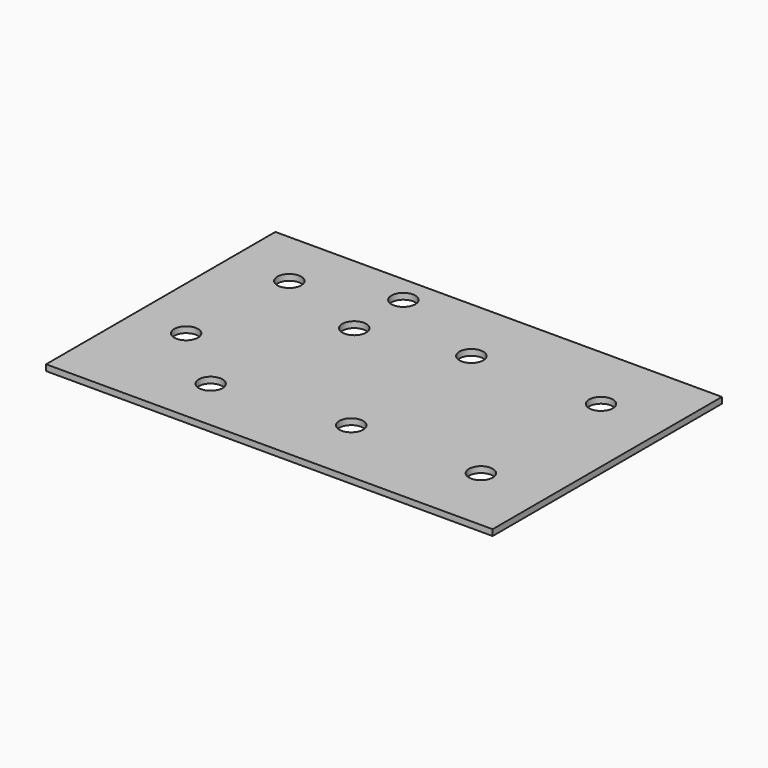
from build123d import *

# Parameters (mm, degrees)
F0_W     = 207.772
F0_H     = 133.35
F1_DEPTH = 2.8194
F2_R     = 5.5372
F3_DEPTH = 2.8204


with BuildPart() as f1:
    # F0 (on Top) → F1 (new body)
    with BuildSketch(Plane.XY):
        Rectangle(F0_W, F0_H)
    extrude(amount=F1_DEPTH)

    # F2 (on face) → F3 (cut, through all)
    with BuildSketch(Plane.XY.offset(2.8194)):
        with Locations((-75.819, 39.6875)):
            Circle(F2_R)
        with Locations((-79.375, -15.875)):
            Circle(F2_R)
        with Locations((-34.163, 53.975)):
            Circle(F2_R)
        with Locations((-34.163, 25.4)):
            Circle(F2_R)
        with Locations((12.7, 34.925)):
            Circle(F2_R)
        with Locations((-47.625, -41.275)):
            Circle(F2_R)
        with Locations((73.025, 34.925)):
            Circle(F2_R)
        with Locations((12.7, -34.925)):
            Circle(F2_R)
        with Locations((73.025, -34.925)):
            Circle(F2_R)
    extrude(amount=-F3_DEPTH, mode=Mode.SUBTRACT)


solid = f1.part
